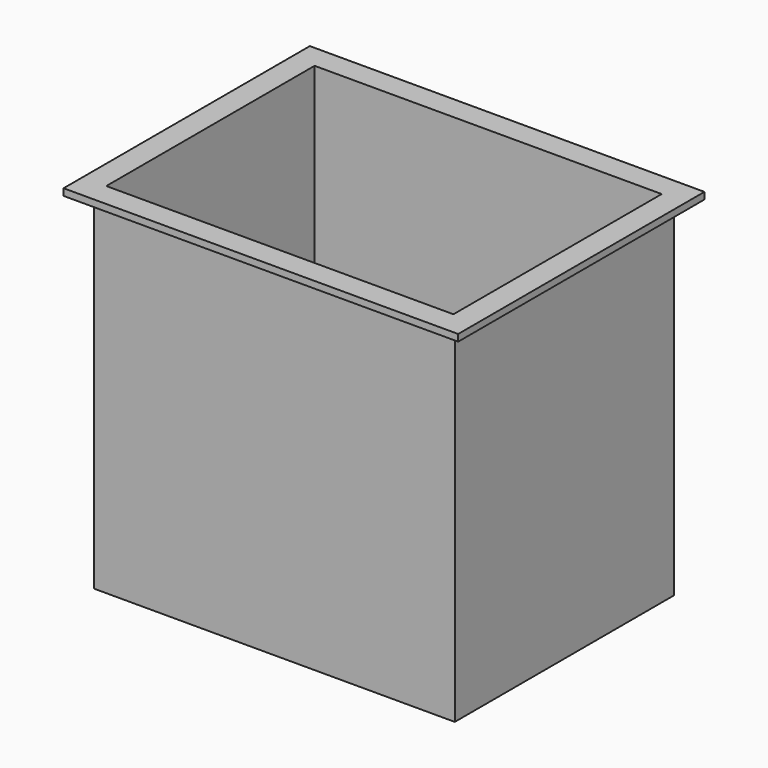
from build123d import *

# Parameters (mm, degrees)
SKETCH_W      = 204.8
SKETCH_H      = 153.6
PAD_DEPTH     = 204.8
THICKNESS_T   = 4
SKETCH001_W   = 232.8
SKETCH001_H   = 181.6
SKETCH001_W_2 = 212.8
SKETCH001_H_2 = 161.6
PAD001_DEPTH  = 4


with BuildPart() as part:
    # Sketch → Pad (new body)
    with BuildSketch(Plane.XY):
        Rectangle(SKETCH_W, SKETCH_H)
    extrude(amount=PAD_DEPTH)

    # Thickness
    thickness_openings = [part.faces().sort_by_distance(p)[0] for p in [
        (0, 0, 204.8),
    ]]
    offset(amount=THICKNESS_T, openings=thickness_openings, kind=Kind.INTERSECTION)

    # Sketch001 → Pad001 (new body)
    with BuildSketch(Plane.XY.offset(204.8)):
        Rectangle(SKETCH001_W, SKETCH001_H)
        Rectangle(SKETCH001_W_2, SKETCH001_H_2, mode=Mode.SUBTRACT)
    extrude(amount=-PAD001_DEPTH)


solid = part.part
